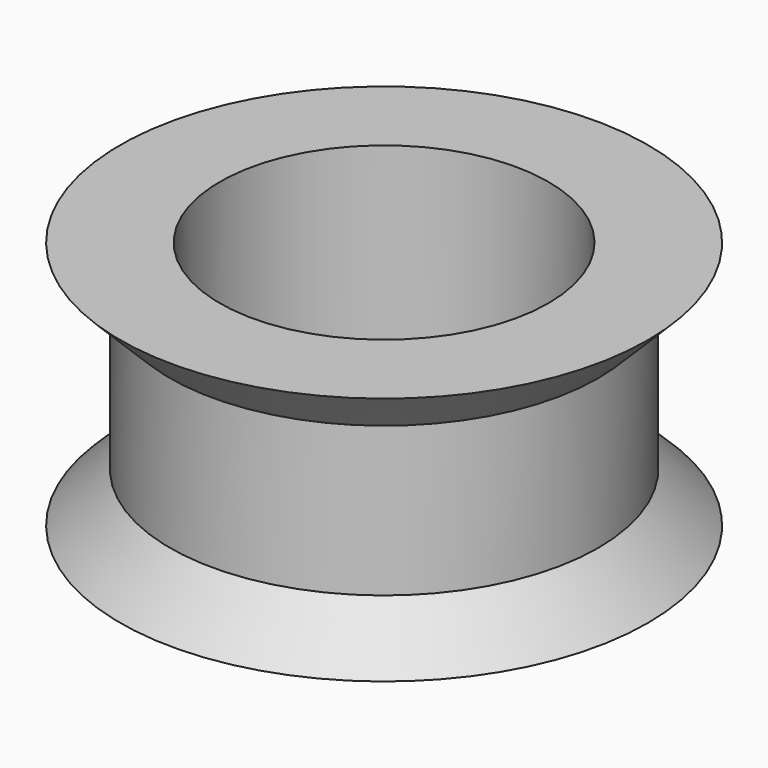
from build123d import *


with BuildPart() as f1:
    # F0 (on Front) → F1 (revolve)
    with BuildSketch(Plane.XZ):
        Polygon((10.6, 4.802996), (6.6, 4.802996), (6.6, 2.802996), (8.6, 2.802996), align=None)
        Polygon((8.6, 2.802996), (6.6, 2.802996), (6.6, -2.197004), (6.6, -3.697004), (6.6, -5.197004), (10.6, -5.197004), (8.6, -3.197004), align=None)
        Polygon((6.6, -3.697004), (6.6, -2.197004), (4.6, -2.197004), (4.6, -5.197004), (6.6, -5.197004), align=None)
    revolve(axis=Axis((0, 0, 0.589413), (0, 0, 1)))


solid = f1.part
